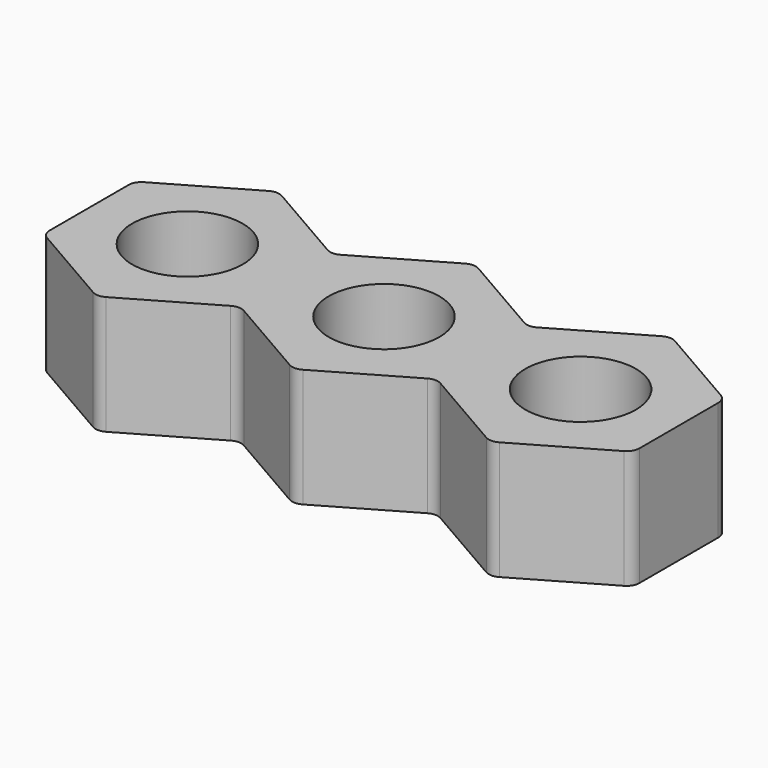
from build123d import *

# Parameters (mm, degrees)
F0_R     = 33.75
F1_DEPTH = 72.4
F2_R     = 8


with BuildPart() as f1:
    # F0 (on Top) → F1 (new body)
    with BuildSketch(Plane.XY):
        Polygon((0, -69.282032), (60, -34.641016), (60, 34.641016), (0, 69.282032), (-60, 34.641016), (-60, -34.641016), align=None)
        Circle(F0_R, mode=Mode.SUBTRACT)
        Polygon((60, 34.641016), (60, -34.641016), (120, -69.282032), (180, -34.641016), (180, 34.641016), (120, 69.282032), align=None)
        with Locations((120, 0)):
            Circle(F0_R, mode=Mode.SUBTRACT)
        Polygon((180, 34.641016), (180, -34.641016), (240, -69.282032), (300, -34.641016), (300, 34.641016), (240, 69.282032), align=None)
        with Locations((240, 0)):
            Circle(F0_R, mode=Mode.SUBTRACT)
    extrude(amount=F1_DEPTH)

    # F2
    f2_edges = [f1.edges().sort_by_distance(p)[0] for p in [
        (60, -34.641016, 36.2),
        (0, -69.282032, 36.2),
        (-60, -34.641016, 36.2),
        (120, -69.282032, 36.2),
        (180, -34.641016, 36.2),
        (180, 34.641016, 36.2),
        (120, 69.282032, 36.2),
        (0, 69.282032, 36.2),
        (60, 34.641016, 36.2),
        (-60, 34.641016, 36.2),
        (240, -69.282032, 36.2),
        (300, -34.641016, 36.2),
        (300, 34.641016, 36.2),
        (240, 69.282032, 36.2),
    ]]
    fillet(f2_edges, radius=F2_R)


solid = f1.part
